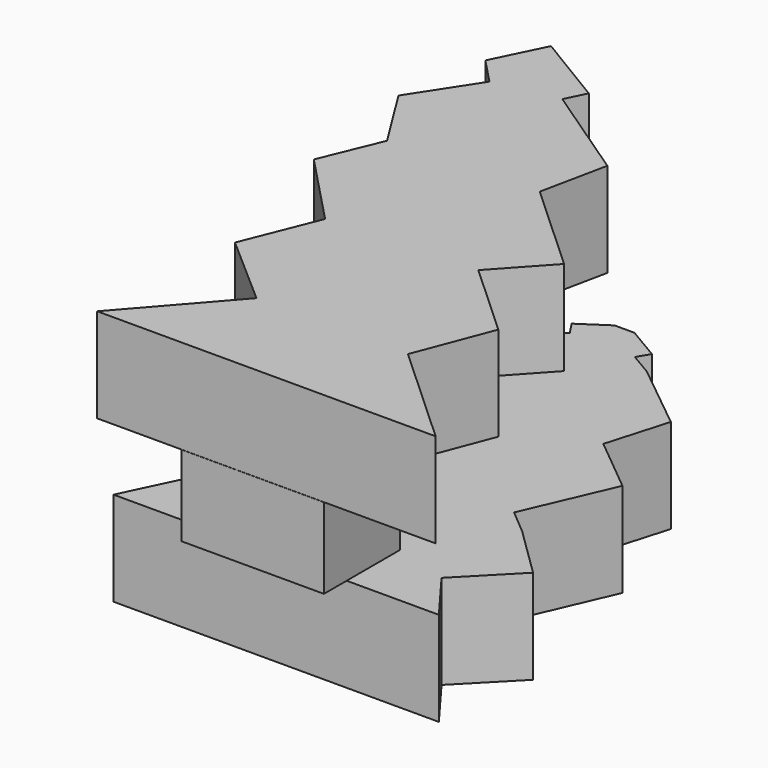
from build123d import *

# Parameters (mm, degrees)
F0_W     = 38.421668
F0_H     = 21.723546
F1_DEPTH = 25.654
F3_DEPTH = 25.4
F5_DEPTH = 25.4


with BuildPart() as f1:
    # F0 (on Front) → F1 (new body)
    with BuildSketch(Plane.XZ):
        with Locations((-8.988556, -10.861773)):
            Rectangle(F0_W, F0_H)
    extrude(amount=F1_DEPTH)

    # F2 (on Top) → F3 (join)
    with BuildSketch(Plane.XY):
        Polygon((40.285237, -25.608186), (12.336836, 0), (20.213788, 20.596649), (0, 39.117868), (12.336836, 52.582112), (-12.247893, 75.108277), (-8.48904, 93.191542), (-34.863744, 110.988721), (-32.161277, 116.5112), (-51.811621, 128.371105), (-58.523729, 114.654942), (-51.811621, 107.624076), (-62.798403, 90.732567), (-51.811621, 73.132925), (-58.523729, 56.873467), (-39.723247, 37.180152), (-47.822462, 16.953924), (-28.467888, 0), (-50.899755, -25.608186), (12.03411, -25.608186), align=None)
    extrude(amount=F3_DEPTH)

    # F4 (on face) → F5 (join)
    with BuildSketch(Plane(origin=(0, 0, -21.723546), x_dir=(1, 0, 0), z_dir=(0, 0, -1))):
        Polygon((35.070475, 18.001819), (-28.19939, 18.001819), (-52.571915, 18.001819), (-43.942019, 0), (-56.837469, -13.168495), (-38.619923, -31.008305), (-52.571915, -51.991437), (-33.270645, -64.825134), (-43.388707, -80.042218), (-28.350061, -96.346714), (-23.641183, -99.477715), (-25.995622, -103.018679), (-18.455179, -108.03243), (-13.068241, -108.03243), (-4.15354, -102.767786), (-6.100819, -99.470429), (0, -95.867544), (18.275963, -81.108525), (13.432275, -64.430095), (28.508507, -52.00937), (18.275963, -28.302995), (24.875846, -22.753326), (38.55817, -9.362553), (24.988588, 4.502474), align=None)
    extrude(amount=F5_DEPTH)


solid = f1.part
